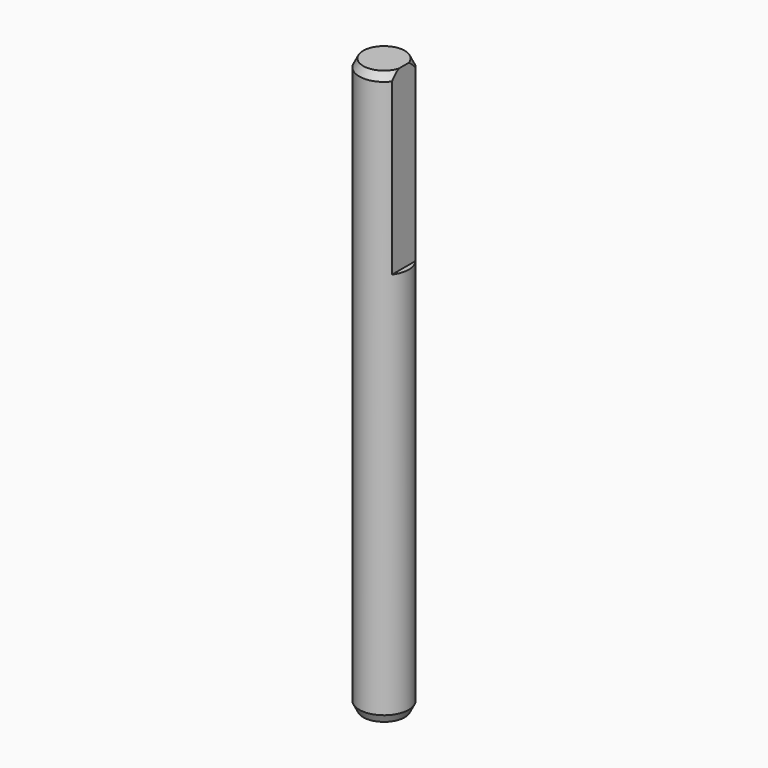
from build123d import *

# Parameters (mm, degrees)
SKETCH012_R      = 2.5
PAD006_DEPTH     = 58
POCKET003_DEPTH  = 18
CHAMFER002_SIZE2 = 0.4
CHAMFER002_SIZE  = 0.8


with BuildPart() as part:
    # Sketch012 → Pad006 (new body)
    with BuildSketch(Plane.XY):
        Circle(SKETCH012_R)
    extrude(amount=PAD006_DEPTH)

    # Sketch013 (on Face3 of Pad006) → Pocket003 (cut)
    with BuildSketch(Plane.XY.offset(58)):
        with BuildLine():
            ThreePointArc((2, -1.5), (2.5, 0), (2, 1.5))
            Line((2, 1.5), (2, -1.5))
        make_face()
    extrude(amount=-POCKET003_DEPTH, mode=Mode.SUBTRACT)

    # Chamfer002
    chamfer002_edges = [part.edges().sort_by_distance(p)[0] for p in [
        (-2.5, 0, 58),
        (-2.5, 0, 0),
    ]]
    chamfer002_side = part.faces().sort_by_distance((-2.5, 0, 29))[0]
    chamfer(chamfer002_edges, length=CHAMFER002_SIZE, length2=CHAMFER002_SIZE2, reference=chamfer002_side)


solid = part.part
